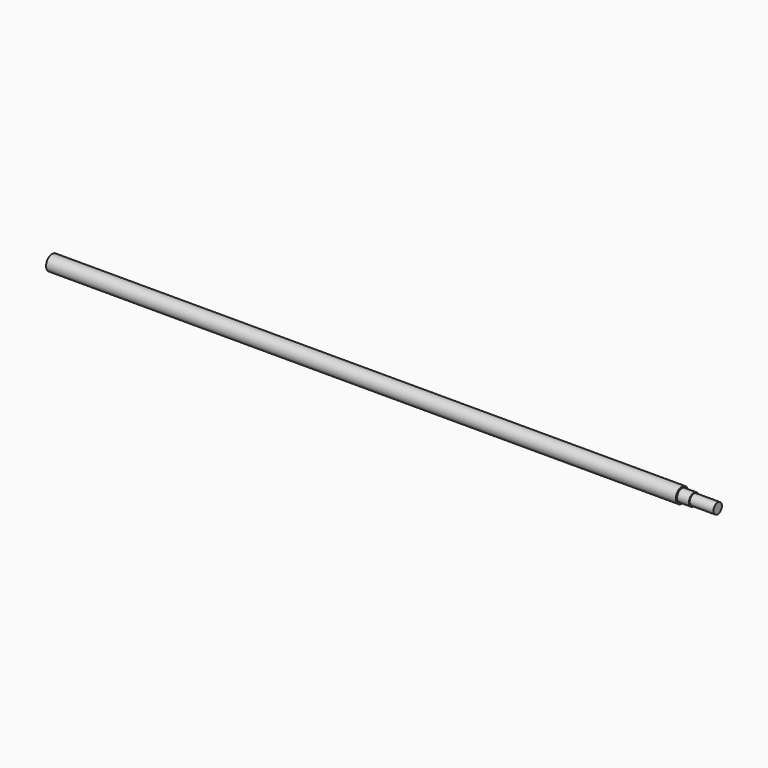
from build123d import *

# Parameters (mm, degrees)
F0_R     = 15.875
F0_R_2   = 12.827
F1_DEPTH = 1320
F2_R     = 12.7
F3_DEPTH = 75
F4_R     = 12.7
F4_R_2   = 11
F5_DEPTH = 50
F6_R     = 12.7
F7_DEPTH = 25


with BuildPart() as f1:
    # F0 (on Right) → F1 (new body)
    with BuildSketch(Plane.YZ):
        Circle(F0_R)
        Circle(F0_R_2, mode=Mode.SUBTRACT)
    extrude(amount=F1_DEPTH)


with BuildPart() as f3:
    # F2 (on face) → F3 (new body)
    with BuildSketch(Plane.YZ.offset(1320)):
        Circle(F2_R)
    extrude(amount=F3_DEPTH)

    # F4 (on face) → F5 (cut)
    with BuildSketch(Plane.YZ.offset(1395)):
        Circle(F4_R)
        Circle(F4_R_2, mode=Mode.SUBTRACT)
    extrude(amount=-F5_DEPTH, mode=Mode.SUBTRACT)

    # F6 (on face) → F7 (join)
    with BuildSketch(Plane(origin=(1320, 0, 0), x_dir=(0, -1, 0), z_dir=(-1, 0, 0))):
        Circle(F6_R)
    extrude(amount=F7_DEPTH)


solid = Compound([f1.part, f3.part])
